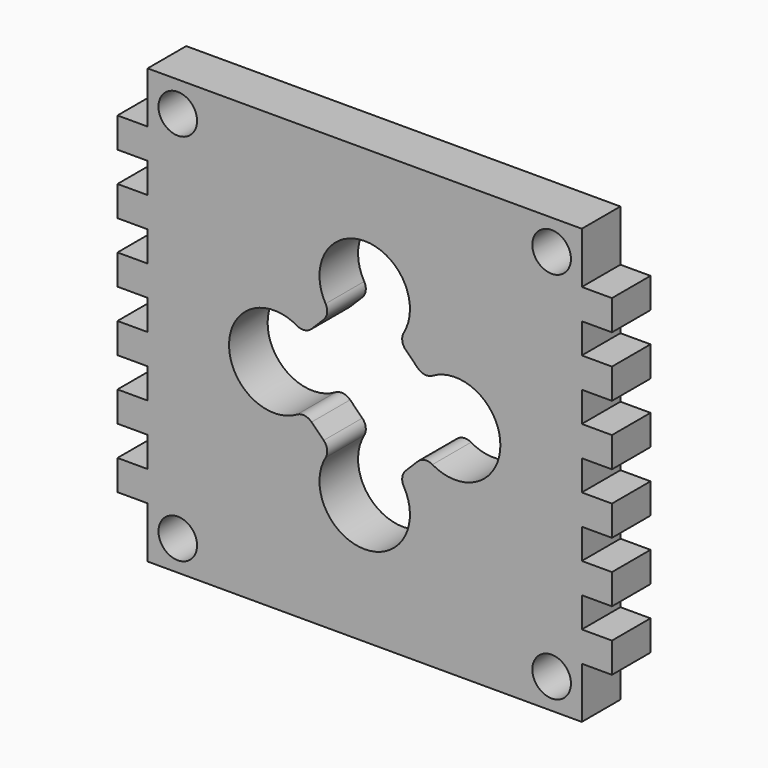
from build123d import *

# Parameters (mm, degrees)
F0_R     = 1.6
F1_DEPTH = 4


with BuildPart() as f1:
    # F0 (on Front) → F1 (new body)
    with BuildSketch(Plane.XZ):
        Polygon((18, 18), (-18, 18), (-18, 13.75), (-20.5, 13.75), (-20.5, 11.25), (-18, 11.25), (-18, 8.75), (-20.5, 8.75), (-20.5, 6.25), (-18, 6.25), (-18, 3.75), (-20.5, 3.75), (-20.5, 1.25), (-18, 1.25), (-18, -1.25), (-20.5, -1.25), (-20.5, -3.75), (-18, -3.75), (-18, -6.25), (-20.5, -6.25), (-20.5, -8.75), (-18, -8.75), (-18, -11.25), (-20.5, -11.25), (-20.5, -13.75), (-18, -13.75), (-18, -18), (18, -18), (18, -13.75), (20.5, -13.75), (20.5, -11.25), (18, -11.25), (18, -8.75), (20.5, -8.75), (20.5, -6.25), (18, -6.25), (18, -3.75), (20.5, -3.75), (20.5, -1.25), (18, -1.25), (18, 1.25), (20.5, 1.25), (20.5, 3.75), (18, 3.75), (18, 6.25), (20.5, 6.25), (20.5, 8.75), (18, 8.75), (18, 11.25), (20.5, 11.25), (20.5, 13.75), (18, 13.75), align=None)
        with Locations((-15.5, -15.5)):
            Circle(F0_R, mode=Mode.SUBTRACT)
        with Locations((15.5, -15.5)):
            Circle(F0_R, mode=Mode.SUBTRACT)
        with Locations((-15.5, 15.5)):
            Circle(F0_R, mode=Mode.SUBTRACT)
        with BuildLine():
            ThreePointArc((-3.2430032256, 5.6170687535), (0, 11.25), (3.2430032256, 5.6170687535))
            ThreePointArc((3.2430032256, 5.6170687535), (3.116200467, 4.9856391639), (3.4006973045, 4.4078469733))
            Line((3.4006973045, 4.4078469733), (4.4078469733, 3.4006973045))
            ThreePointArc((4.4078469733, 3.4006973045), (4.9856391639, 3.116200467), (5.6170687535, 3.2430032256))
            ThreePointArc((5.6170687535, 3.2430032256), (11.25, 0), (5.6170687535, -3.2430032256))
            ThreePointArc((5.6170687535, -3.2430032256), (4.9856391639, -3.116200467), (4.4078469733, -3.4006973045))
            Line((4.4078469733, -3.4006973045), (3.4006973045, -4.4078469733))
            ThreePointArc((3.4006973045, -4.4078469733), (3.116200467, -4.9856391639), (3.2430032256, -5.6170687535))
            ThreePointArc((3.2430032256, -5.6170687535), (0, -11.25), (-3.2430032256, -5.6170687535))
            ThreePointArc((-3.2430032256, -5.6170687535), (-3.116200467, -4.9856391639), (-3.4006973045, -4.4078469733))
            Line((-3.4006973045, -4.4078469733), (-4.4078469733, -3.4006973045))
            ThreePointArc((-4.4078469733, -3.4006973045), (-4.9856391639, -3.116200467), (-5.6170687535, -3.2430032256))
            ThreePointArc((-5.6170687535, -3.2430032256), (-11.25, 0), (-5.6170687535, 3.2430032256))
            ThreePointArc((-5.6170687535, 3.2430032256), (-4.9856391639, 3.116200467), (-4.4078469733, 3.4006973045))
            Line((-4.4078469733, 3.4006973045), (-3.4006973045, 4.4078469733))
            ThreePointArc((-3.4006973045, 4.4078469733), (-3.116200467, 4.9856391639), (-3.2430032256, 5.6170687535))
        make_face(mode=Mode.SUBTRACT)
        with Locations((15.5, 15.5)):
            Circle(F0_R, mode=Mode.SUBTRACT)
    extrude(amount=F1_DEPTH)


solid = f1.part
